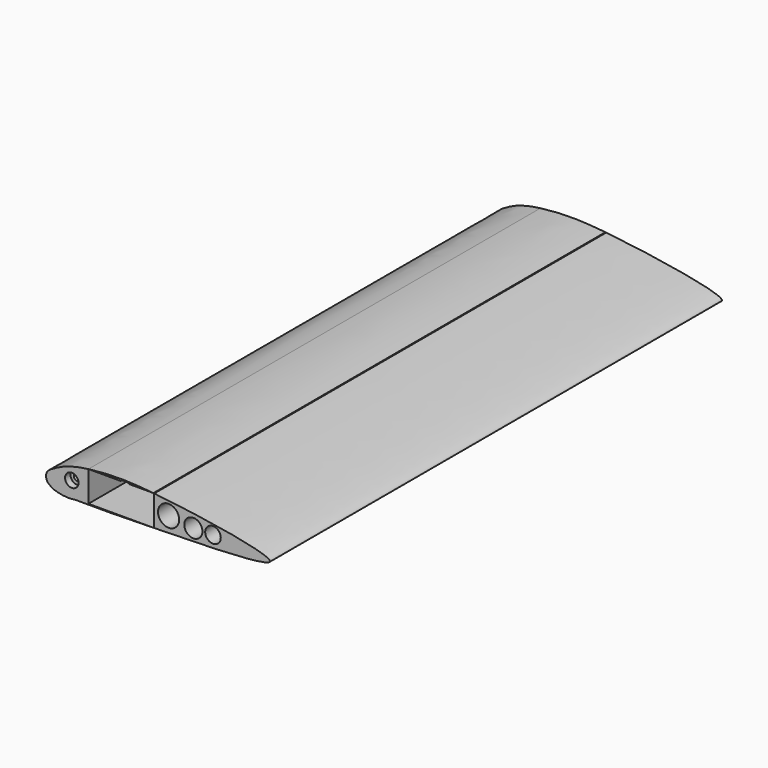
from build123d import *

# Parameters (mm, degrees)
F1_DEPTH       = 534.416
F3_D           = 6.35
F3_CBORE_D     = 12.7
F3_CBORE_DEPTH = 6.35
F4_R           = 8.7547116009
F5_DEPTH       = 703.326
F6_R           = 8.914193413
F6_R_2         = 9.9983676921
F6_R_3         = 8.5816038422
F7_DEPTH       = 728.98
F8_W           = 62.2362921732
F8_H           = 28.8776109622
F9_DEPTH       = 623.57
F10_R          = 7.3619322242
F11_DEPTH      = 581.914


with BuildPart() as f1:
    # F0 (on Front) → F1 (new body)
    with BuildSketch(Plane.XZ):
        with BuildLine():
            add(Edge.make_bspline(
                [(173.3880490065, 13.8879194856), (164.5305947013, 7.050111341), (24.2834440376, 6.8599097984), (24.9127091162, 5.7789513973), (-10.5402333323, 6.7101515187), (-15.9951954524, 5.0183412735), (-29.5446436293, 6.9360993211), (-35.0464840313, 10.8547403654), (-37.7855329704, 13.8660963383), (-38.1762304635, 21.0721764744), (-30.2580395878, 25.8912049589), (-15.4420167015, 33.554483769), (18.3322031726, 38.1522856015), (63.185609008, 38.0762095864), (180.7864935318, 19.5993962247), (173.3880490065, 13.8879194856)],
                knots=[0, 0, 0, 0, 0.1879627366, 0.2310329582, 0.3185625787, 0.3616718733, 0.417094316, 0.4576709477, 0.4880965738, 0.5263976869, 0.5713075264, 0.6347252281, 0.7203749023, 0.8429986956, 1, 1, 1, 1], degree=3))
        make_face()
    extrude(amount=F1_DEPTH)

    # F3 (through all)
    with Locations(Plane.XZ.offset(534.416)):
        with Locations((-13.4461792186, 21.2723873556)):
            CounterBoreHole(F3_D / 2, F3_CBORE_D / 2, F3_CBORE_DEPTH)

    # F4 (on face) → F5 (cut)
    with BuildSketch(Plane(origin=(0, 0, 0), x_dir=(-1, 0, 0), z_dir=(0, 1, 0))):
        with Locations((-36.8856862187, 28.142048046)):
            Circle(F4_R)
    extrude(amount=-F5_DEPTH, mode=Mode.SUBTRACT)

    # F6 (on face) → F7 (cut)
    with BuildSketch(Plane(origin=(0, 0, 0), x_dir=(-1, 0, 0), z_dir=(0, 1, 0))):
        with Locations((-55.357966572, 22.5926842541)):
            Circle(F6_R)
        with Locations((-78.0982300639, 21.4873030782)):
            Circle(F6_R_2)
        with Locations((-101.5373468399, 18.8807640225)):
            Circle(F6_R_3)
    extrude(amount=-F7_DEPTH, mode=Mode.SUBTRACT)

    # F8 (on face) → F9 (cut)
    with BuildSketch(Plane.XZ.offset(534.416)):
        with Locations((33.4185816673, 21.3080984521)):
            Rectangle(F8_W, F8_H)
    extrude(amount=-F9_DEPTH, mode=Mode.SUBTRACT)

    # F10 (on face) → F11 (cut)
    with BuildSketch(Plane.XZ.offset(534.416)):
        with Locations((120.1056987047, 19.2340239882)):
            Circle(F10_R)
    extrude(amount=-F11_DEPTH, mode=Mode.SUBTRACT)


solid = f1.part
